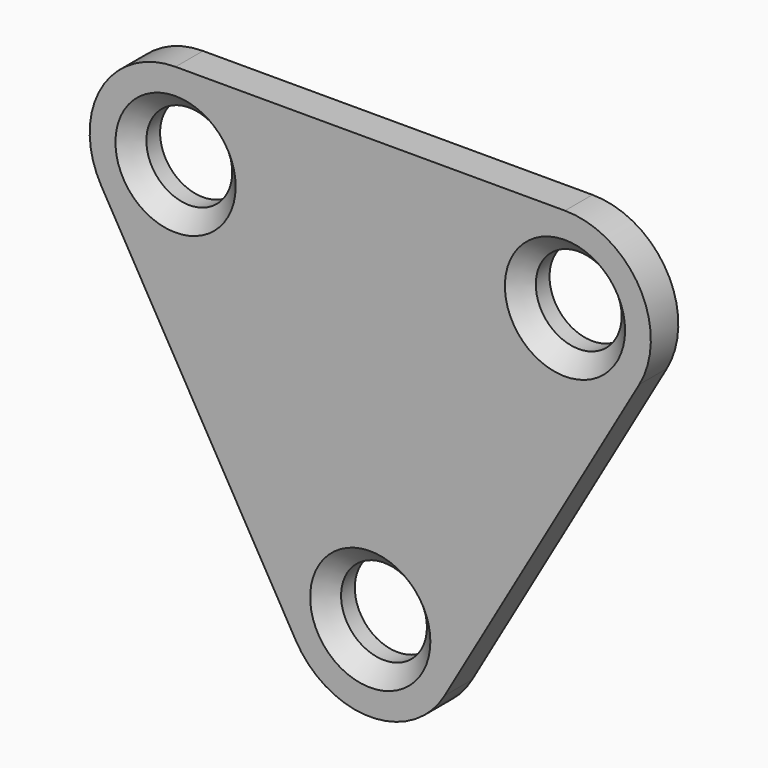
from build123d import *

# Parameters (mm, degrees)
F0_R     = 2.5
F1_DEPTH = 2
F2_R     = 5
F3_SIZE  = 1


with BuildPart() as f1:
    # F0 (on Front) → F1 (new body)
    with BuildSketch(Plane.XZ):
        Polygon((0, -34.641016), (20, 0), (-20, 0), align=None)
        with Locations((0, -24.641015)):
            Circle(F0_R, mode=Mode.SUBTRACT)
        with Locations((-11.339745, -5.000001)):
            Circle(F0_R, mode=Mode.SUBTRACT)
        with Locations((11.339745, -5.000001)):
            Circle(F0_R, mode=Mode.SUBTRACT)
    extrude(amount=F1_DEPTH)

    # F2
    f2_edges = [f1.edges().sort_by_distance(p)[0] for p in [
        (-20, -1, 0),
        (0, -1, -34.641016),
        (20, -1, 0),
    ]]
    fillet(f2_edges, radius=F2_R)

    # F3
    f3_edges = [f1.edges().sort_by_distance(p)[0] for p in [
        (-13.839745, -2, -5.000001),
        (8.839745, -2, -5.000001),
        (-2.5, -2, -24.641015),
    ]]
    chamfer(f3_edges, length=F3_SIZE)


solid = f1.part
